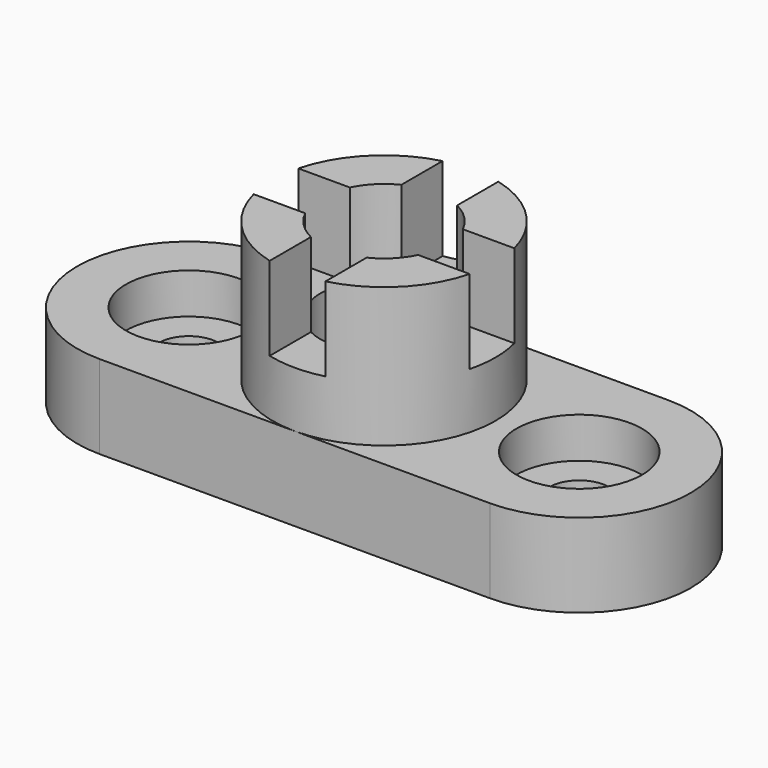
from build123d import *

# Parameters (mm, degrees)
F1_DEPTH       = 19.05
F2_R           = 14.2875
F3_DEPTH       = 9.2456
F4_R           = 6.7437
F5_DEPTH       = 19.051
F6_R           = 25.4
F6_R_2         = 14.351
F7_DEPTH       = 31.75
F8_W           = 12.7
F8_H           = 19.05
F9_DEPTH       = 25.401
F9_DEPTH_BACK  = 25.401
F10_W          = 12.7
F10_H          = 19.05
F11_DEPTH      = 69.851
F11_DEPTH_BACK = 69.851
F12_DEPTH      = 19.051


with BuildPart() as f1:
    # F0 (on Top) → F1 (new body)
    with BuildSketch(Plane.XY):
        with BuildLine():
            ThreePointArc((-44.45, 25.4), (-69.85, 0), (-44.45, -25.4))
            Line((-44.45, -25.4), (44.45, -25.4))
            ThreePointArc((44.45, -25.4), (69.85, 0), (44.45, 25.4))
            Line((44.45, 25.4), (-44.45, 25.4))
        make_face()
    extrude(amount=F1_DEPTH)

    # F2 (on face) → F3 (cut)
    with BuildSketch(Plane.XY.offset(19.05)):
        with Locations((-44.45, 0)):
            Circle(F2_R)
        with Locations((44.45, 0)):
            Circle(F2_R)
    extrude(amount=-F3_DEPTH, mode=Mode.SUBTRACT)

    # F4 (on face) → F5 (cut, through all)
    with BuildSketch(Plane(origin=(0, 0, 0), x_dir=(1, 0, 0), z_dir=(0, 0, -1))):
        with Locations((-44.45, 0)):
            Circle(F4_R)
        with Locations((44.45, 0)):
            Circle(F4_R)
    extrude(amount=-F5_DEPTH, mode=Mode.SUBTRACT)

    # F6 (on face) → F7 (join)
    with BuildSketch(Plane.XY.offset(19.05)):
        Circle(F6_R)
        Circle(F6_R_2, mode=Mode.SUBTRACT)
    extrude(amount=F7_DEPTH)

    # F8 (on Front) → F9 (cut, two sides)
    with BuildSketch(Plane.XZ) as f9_sk:
        with Locations((0, 41.275)):
            Rectangle(F8_W, F8_H)
    extrude(amount=-F9_DEPTH, mode=Mode.SUBTRACT)
    extrude(f9_sk.sketch, amount=F9_DEPTH_BACK, mode=Mode.SUBTRACT)

    # F10 (on Right) → F11 (cut, two sides)
    with BuildSketch(Plane.YZ) as f11_sk:
        with Locations((0, 41.275)):
            Rectangle(F10_W, F10_H)
    extrude(amount=-F11_DEPTH, mode=Mode.SUBTRACT)
    extrude(f11_sk.sketch, amount=F11_DEPTH_BACK, mode=Mode.SUBTRACT)

    # F12 (cut, through all): a face of the model
    f12_faces = [f1.faces().sort_by_distance(p)[0] for p in [
        (0, 0, 19.05),
    ]]
    extrude(f12_faces, amount=-F12_DEPTH, mode=Mode.SUBTRACT)


solid = f1.part
